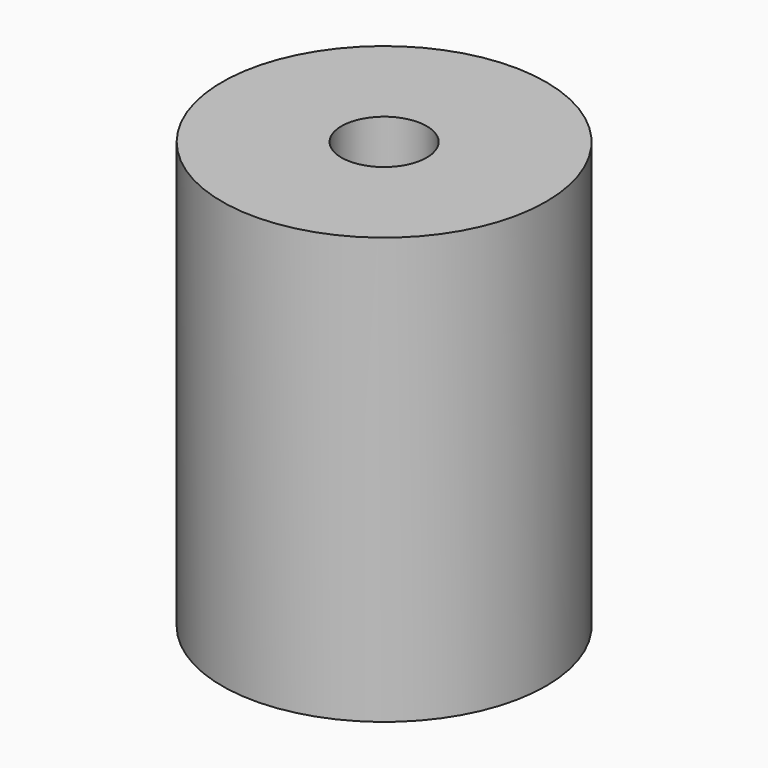
from build123d import *

# Parameters (mm, degrees)
F0_R     = 9.5
F0_R_2   = 2.5
F1_DEPTH = 25
F2_D     = 5


with BuildPart() as f1:
    # F0 (on Top) → F1 (new body)
    with BuildSketch(Plane.XY):
        with Locations((-37.4399609864, 10.8944186941)):
            Circle(F0_R)
        with Locations((-37.4399609864, 10.8944186941)):
            Circle(F0_R_2, mode=Mode.SUBTRACT)
        with Locations((-37.4399609864, 10.8944186941)):
            Circle(F0_R_2)
    extrude(amount=F1_DEPTH)

    # F2 (through all)
    with Locations(Plane(origin=(0, 0, 0), x_dir=(1, 0, 0), z_dir=(0, 0, -1))):
        with Locations((-37.4399609864, -10.8944186941)):
            Hole(F2_D / 2)


solid = f1.part
